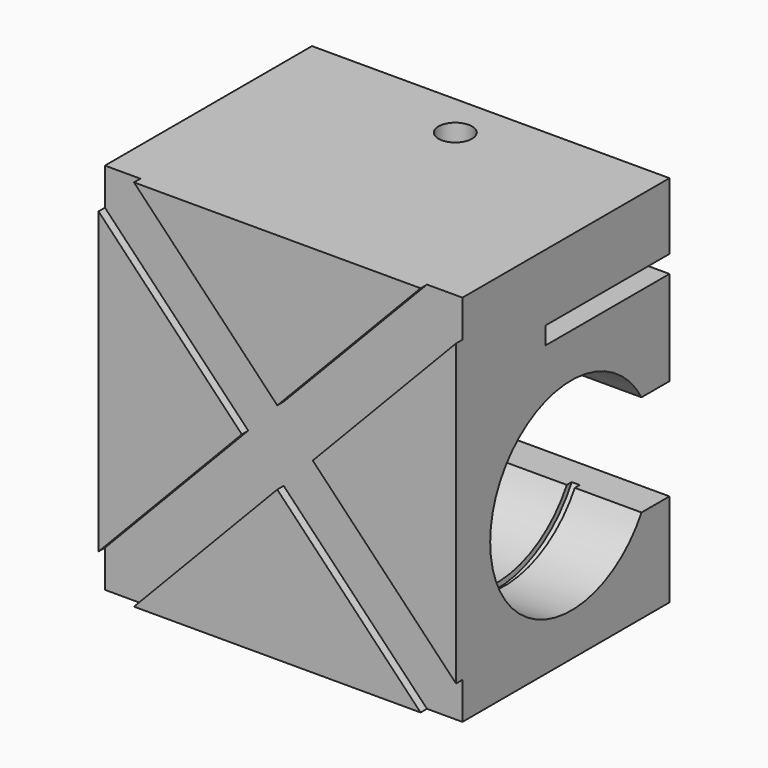
from build123d import *

# Parameters (mm, degrees)
F0_W      = 67
F0_H      = 50
F1_DEPTH  = 70
F3_DEPTH  = 1.5
F4_W      = 58
F4_H      = 3.3
F5_DEPTH  = 67.001
F6_DEPTH  = 67.001
F7_R      = 3.15
F8_DEPTH  = 12.5
F11_R     = 20
F12_DEPTH = 1.5
F13_R     = 20
F14_DEPTH = 1.5


with BuildPart() as f1:
    # F0 (on Top) → F1 (new body)
    with BuildSketch(Plane.XY):
        Rectangle(F0_W, F0_H)
    extrude(amount=F1_DEPTH)

    # F2 (on face) → F3 (cut)
    with BuildSketch(Plane.XZ.offset(25)):
        Polygon((0, 41.941864), (-26.855644, 70), (-33.5, 70), (-33.5, 63.058136), (-6.644356, 35), (-33.5, 6.941864), (-33.5, 0), (-26.855644, 0), (0, 28.058136), (26.855644, 0), (33.5, 0), (33.5, 6.941864), (6.644356, 35), (33.5, 63.058136), (33.5, 70), (26.855644, 70), align=None)
    extrude(amount=-F3_DEPTH, mode=Mode.SUBTRACT)

    # F4 (on face) → F5 (cut, through all)
    with BuildSketch(Plane.YZ.offset(33.5)):
        with BuildLine():
            Line((33.286914, 36.5), (18.454483, 36.5))
            ThreePointArc((18.454483, 36.5), (-17, 27), (18.454483, 17.5))
            Line((18.454483, 17.5), (33.286914, 17.5))
            Line((33.286914, 17.5), (33.286914, 36.5))
        make_face()
        with Locations((25, 55.85)):
            Rectangle(F4_W, F4_H)
    extrude(amount=-F5_DEPTH, mode=Mode.SUBTRACT)

    # F4 (on face) → F6 (cut, through all)
    with BuildSketch(Plane.YZ.offset(33.5)):
        with BuildLine():
            Line((33.286914, 36.5), (18.454483, 36.5))
            ThreePointArc((18.454483, 36.5), (-17, 27), (18.454483, 17.5))
            Line((18.454483, 17.5), (33.286914, 17.5))
            Line((33.286914, 17.5), (33.286914, 36.5))
        make_face()
        with Locations((25, 55.85)):
            Rectangle(F4_W, F4_H)
    extrude(amount=-F6_DEPTH, mode=Mode.SUBTRACT)

    # F7 (on face) → F8 (cut, through all)
    with BuildSketch(Plane.XY.offset(70)):
        with Locations((0, 16.7)):
            Circle(F7_R)
    extrude(amount=-F8_DEPTH, mode=Mode.SUBTRACT)

    # F11 (on offset) → F12 (cut)
    with BuildSketch(Plane.YZ.offset(21)):
        with Locations((2, 27)):
            Circle(F11_R)
    extrude(amount=-F12_DEPTH, mode=Mode.SUBTRACT)

    # F13 (on offset) → F14 (cut)
    with BuildSketch(Plane.YZ.offset(-21)):
        with Locations((2, 27)):
            Circle(F13_R)
    extrude(amount=F14_DEPTH, mode=Mode.SUBTRACT)


solid = f1.part
